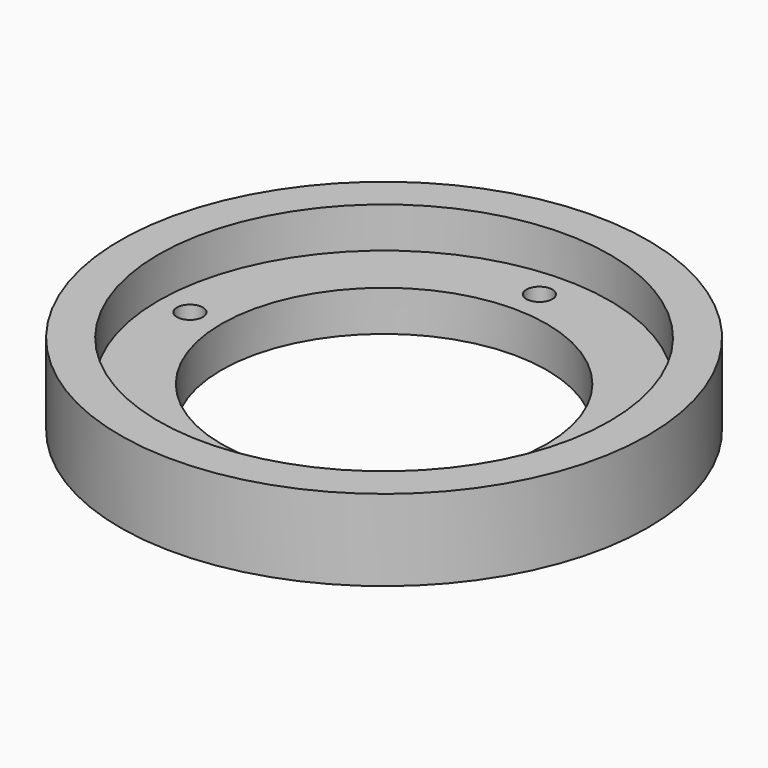
from build123d import *

# Parameters (mm, degrees)
F0_R     = 32.5
F0_R_2   = 27.78
F1_DEPTH = 10
F0_R_3   = 1.6
F0_R_4   = 20.03
F2_DEPTH = 5


with BuildPart() as f1:
    # F0 (on Top) → F1 (new body)
    with BuildSketch(Plane.XY):
        Circle(F0_R)
        Circle(F0_R_2, mode=Mode.SUBTRACT)
    extrude(amount=F1_DEPTH)

    # F0 (on Top) → F2 (join)
    with BuildSketch(Plane.XY):
        Circle(F0_R_2)
        with Locations((0, -23.905)):
            Circle(F0_R_3, mode=Mode.SUBTRACT)
        with Locations((-23.905, 0)):
            Circle(F0_R_3, mode=Mode.SUBTRACT)
        Circle(F0_R_4, mode=Mode.SUBTRACT)
        with Locations((23.905, 0)):
            Circle(F0_R_3, mode=Mode.SUBTRACT)
        with Locations((0, 23.905)):
            Circle(F0_R_3, mode=Mode.SUBTRACT)
    extrude(amount=F2_DEPTH)


solid = f1.part
